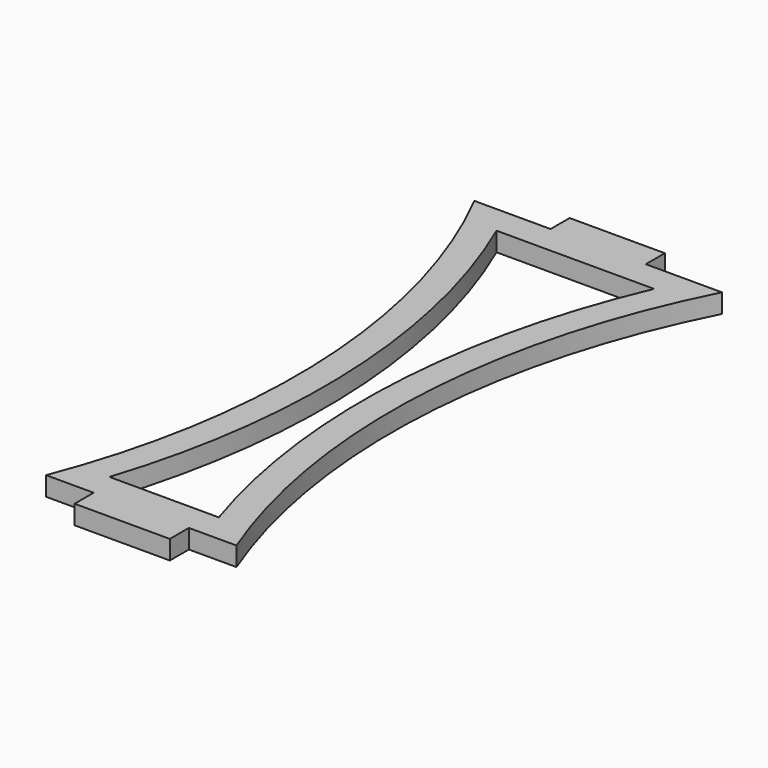
from build123d import *

# Parameters (mm, degrees)
F1_DEPTH = 2.54
F3_DEPTH = 2.54


with BuildPart() as f1:
    # F0 (on Top) → F1 (new body)
    with BuildSketch(Plane.XY):
        with BuildLine():
            ThreePointArc((-16.51, 38.1), (-6.466491, 0.406925), (-12.7, -38.1))
            Line((-12.7, -38.1), (-6.35, -38.1))
            Line((-6.35, -38.1), (-6.35, -41.275))
            Line((-6.35, -41.275), (6.35, -41.275))
            Line((6.35, -41.275), (6.35, -38.1))
            Line((6.35, -38.1), (12.7, -38.1))
            ThreePointArc((12.7, -38.1), (6.466491, 0.406925), (16.51, 38.1))
            Line((16.51, 38.1), (6.35, 38.1))
            Line((6.35, 38.1), (6.35, 41.275))
            Line((6.35, 41.275), (-6.35, 41.275))
            Line((-6.35, 41.275), (-6.35, 38.1))
            Line((-6.35, 38.1), (-16.51, 38.1))
        make_face()
    extrude(amount=F1_DEPTH)

    # F2 (on face) → F3 (cut, through all)
    with BuildSketch(Plane.XY.offset(2.54)):
        with BuildLine():
            ThreePointArc((-10.511564, 34.29), (-2.646525, 0.293267), (-7.297803, -34.29))
            Line((-7.297803, -34.29), (7.297803, -34.29))
            ThreePointArc((7.297803, -34.29), (2.646525, 0.293267), (10.511564, 34.29))
            Line((10.511564, 34.29), (-10.511564, 34.29))
        make_face()
    extrude(amount=-F3_DEPTH, mode=Mode.SUBTRACT)


solid = f1.part
